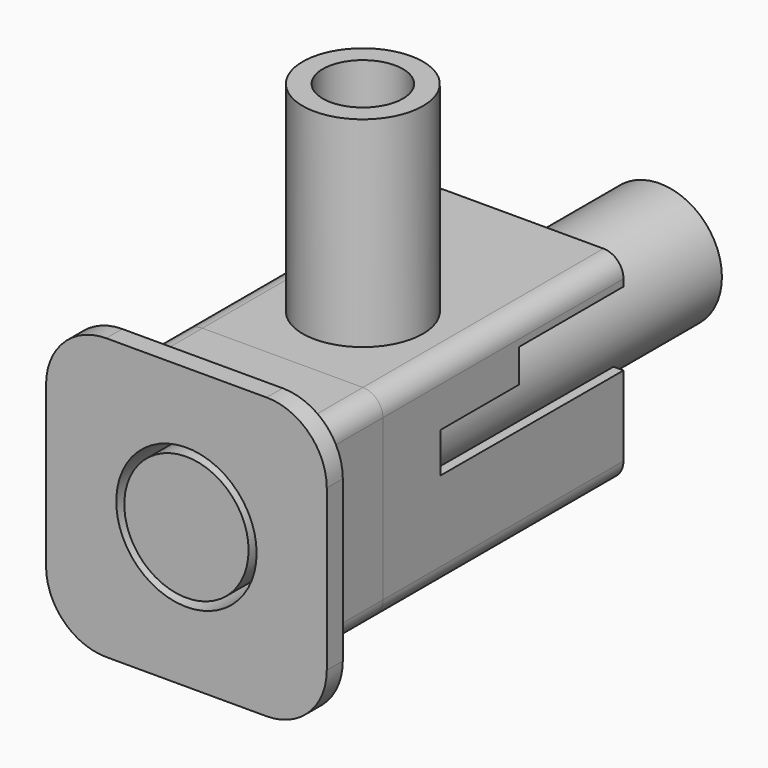
from build123d import *

# Parameters (mm, degrees)
F0_W      = 50
F0_H      = 50
F1_DEPTH  = 75
F2_R      = 5
F3_T      = -2.5
F4_R      = 10
F5_DEPTH  = 50.001
F7_DEPTH  = 3
F9_DEPTH  = 25
F11_DEPTH = 5
F12_R     = 17.5
F13_DEPTH = 105.001
F14_R     = 15.5
F15_DEPTH = 147.557229
F16_R     = 15
F16_R_2   = 10
F17_DEPTH = 50


with BuildPart() as f1:
    # F0 (on Front) → F1 (new body)
    with BuildSketch(Plane.XZ):
        Rectangle(F0_W, F0_H)
    extrude(amount=F1_DEPTH)

    # F2
    f2_edges = [f1.edges().sort_by_distance(p)[0] for p in [
        (-25, -37.5, -25),
        (25, -37.5, -25),
        (-25, -37.5, 25),
        (25, -37.5, 25),
    ]]
    fillet(f2_edges, radius=F2_R)

    # F3
    f3_openings = [f1.faces().sort_by_distance(p)[0] for p in [
        (0, -75, 0),
        (0, 0, 0),
    ]]
    offset(amount=F3_T, openings=f3_openings)

    # F4 (on face) → F5 (cut, through all)
    with BuildSketch(Plane.XY.offset(25)):
        with Locations((0, -50)):
            Circle(F4_R)
    extrude(amount=-F5_DEPTH, mode=Mode.SUBTRACT)

    # F6 (on face) → F7 (cut)
    with BuildSketch(Plane.YZ.offset(25)):
        Polygon((-57, 10), (-57, 0), (0, -0.119625), (0, 18.276277), (-32.574555, 18.276277), (-32.574555, 10), align=None)
    extrude(amount=-F7_DEPTH, mode=Mode.SUBTRACT)


with BuildPart() as f9:
    # F8 (on face) → F9 (new body)
    with BuildSketch(Plane.XZ.offset(75)):
        with BuildLine():
            ThreePointArc((25, 20), (23.535534, 23.535534), (20, 25))
            Line((20, 25), (-20, 25))
            ThreePointArc((-20, 25), (-23.535534, 23.535534), (-25, 20))
            Line((-25, 20), (-25, -20))
            ThreePointArc((-25, -20), (-23.535534, -23.535534), (-20, -25))
            Line((-20, -25), (20, -25))
            ThreePointArc((20, -25), (23.535534, -23.535534), (25, -20))
            Line((25, -20), (25, 20))
        make_face()
    extrude(amount=F9_DEPTH)

    # F10 (on face) → F11 (join)
    with BuildSketch(Plane.XZ.offset(100)):
        with BuildLine():
            Line((35, -20), (35, 20))
            ThreePointArc((35, 20), (30.606602, 30.606602), (20, 35))
            Line((20, 35), (-20, 35))
            ThreePointArc((-20, 35), (-30.606602, 30.606602), (-35, 20))
            Line((-35, 20), (-35, -20))
            ThreePointArc((-35, -20), (-30.606602, -30.606602), (-20, -35))
            Line((-20, -35), (20, -35))
            ThreePointArc((20, -35), (30.606602, -30.606602), (35, -20))
        make_face()
    extrude(amount=F11_DEPTH)

    # F12 (on face) → F13 (cut, through all)
    with BuildSketch(Plane.XZ.offset(105)):
        Circle(F12_R)
    extrude(amount=-F13_DEPTH, mode=Mode.SUBTRACT)


with BuildPart() as f15:
    # F14 (on face) → F15 (new body)
    with BuildSketch(Plane.XZ.offset(105)):
        Circle(F14_R)
    extrude(amount=-F15_DEPTH)


with BuildPart() as f17:
    # F16 (on face) → F17 (new body)
    with BuildSketch(Plane.XY.offset(25)):
        with Locations((0, -50)):
            Circle(F16_R)
        with Locations((0, -50)):
            Circle(F16_R_2, mode=Mode.SUBTRACT)
    extrude(amount=F17_DEPTH)


solid = Compound([f1.part, f9.part, f15.part, f17.part])
